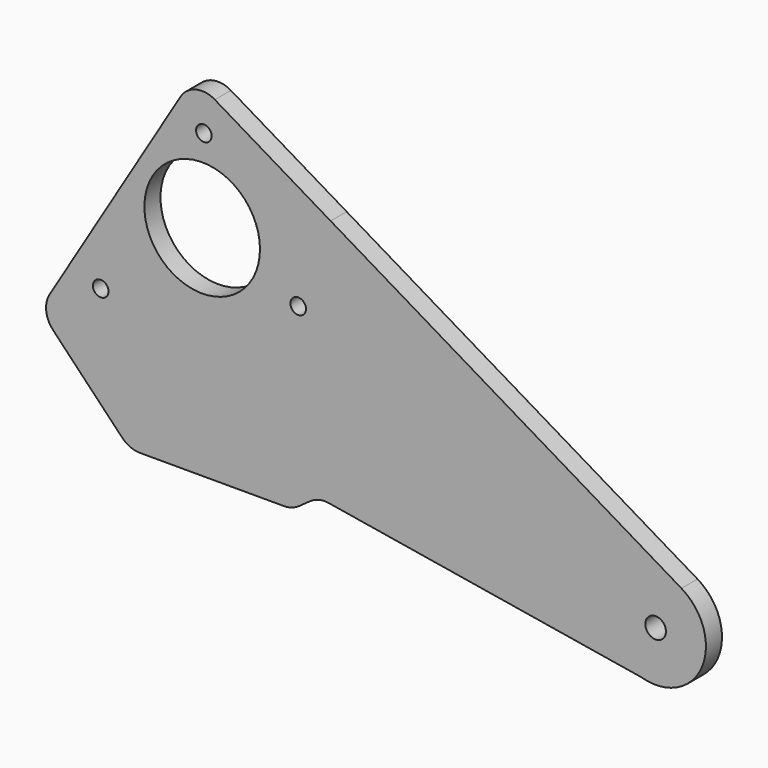
from build123d import *

# Parameters (mm, degrees)
F0_R     = 1.55
F0_R_2   = 2.05
F0_R_3   = 11.5
F1_DEPTH = 4


with BuildPart() as f1:
    # F0 (on Front) → F1 (new body)
    with BuildSketch(Plane.XZ):
        with BuildLine():
            Line((-16.725318, 11.186527), (45.476793, 0.897281))
            ThreePointArc((45.476793, 0.897281), (57.465661, 6.482353), (53.427701, 19.076831))
            Line((53.427701, 19.076831), (-16.376718, 60.729096))
            Line((-16.376718, 60.729096), (-39.415676, 74.476432))
            ThreePointArc((-39.415676, 74.476432), (-43.185937, 75.034556), (-46.254162, 72.773502))
            Line((-46.254162, 72.773502), (-48.080801, 69.758379))
            Line((-48.080801, 69.758379), (-72.287095, 29.693105))
            ThreePointArc((-72.287095, 29.693105), (-72.977259, 26.558193), (-71.619098, 23.649688))
            Line((-71.619098, 23.649688), (-57.879244, 9.298912))
            ThreePointArc((-57.879244, 9.298912), (-56.231199, 8.158415), (-54.267672, 7.756737))
            Line((-54.267672, 7.756737), (-25.636022, 7.756737))
            ThreePointArc((-25.636022, 7.756737), (-24.107421, 7.99613), (-22.725195, 8.691385))
            Line((-22.725195, 8.691385), (-20.452139, 10.318913))
            ThreePointArc((-20.452139, 10.318913), (-18.675009, 11.123338), (-16.725318, 11.186527))
        make_face()
        with Locations((-62.128987, 34.001518)):
            Circle(F0_R, mode=Mode.SUBTRACT)
        with Locations((48.303598, 10.489423)):
            Circle(F0_R_2, mode=Mode.SUBTRACT)
        with Locations((-41.937249, 51.202929)):
            Circle(F0_R_3, mode=Mode.SUBTRACT)
        with Locations((-22.826243, 43.699036)):
            Circle(F0_R, mode=Mode.SUBTRACT)
        with Locations((-41.60277, 67.90175)):
            Circle(F0_R, mode=Mode.SUBTRACT)
    extrude(amount=F1_DEPTH)


solid = f1.part
